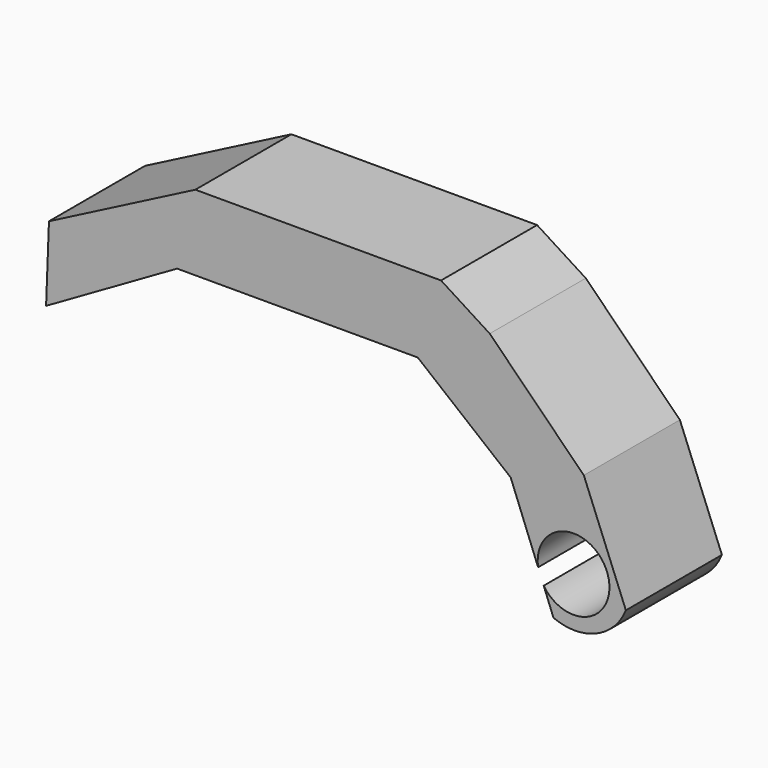
from build123d import *

# Parameters (mm, degrees)
F1_DEPTH = 12.7
F3_D     = 7.5946
F5_DEPTH = 25.4


with BuildPart() as f1:
    # F0 (on Front) → F1 (new body)
    with BuildSketch(Plane.XZ):
        Polygon((-23.688762, 0), (-1.933777, 0), (1.772629, 0), (11.602659, -7.976828), (19.337766, -27.798036), (23.608761, -21.086473), (24.058953, -17.065071), (19.337766, -5.253581), (9.385022, 4.699161), (4.234401, 7.976828), (-21.754986, 7.976828), (-37.24273, 0), (-37.547495, -7.976828), align=None)
    extrude(amount=F1_DEPTH)

    # F3 (through all)
    with Locations(Plane.XZ.offset(12.7)):
        with Locations((18.250674, -14.809974)):
            Hole(F3_D / 2)

    # F4 (on face) → F5 (cut)
    with BuildSketch(Plane.XZ.offset(12.7)):
        with BuildLine():
            ThreePointArc((23.785793, -16.381676), (20.622019, -19.575228), (16.126665, -19.569593))
            Line((16.126665, -19.569593), (19.337766, -27.798036))
            Line((19.337766, -27.798036), (23.608761, -21.086473))
            Line((23.608761, -21.086473), (24.058953, -17.065071))
            Line((24.058953, -17.065071), (23.785793, -16.381676))
        make_face()
    extrude(amount=-F5_DEPTH, mode=Mode.SUBTRACT)


solid = f1.part
